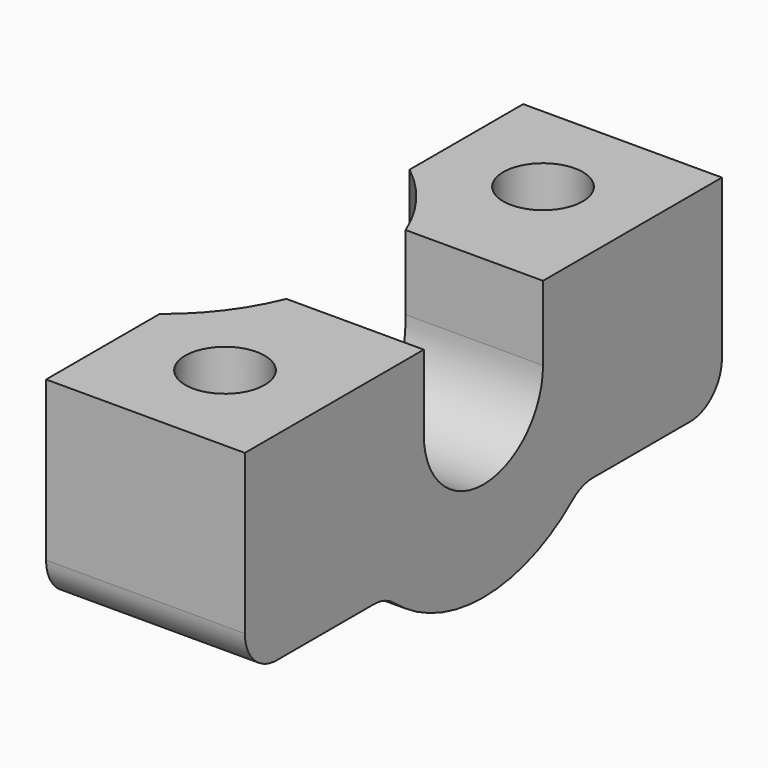
from build123d import *

# Parameters (mm, degrees)
F2_DEPTH = 12.7
F0_R     = 2.54
F3_DEPTH = 25.4
F4_R     = 2.54
F5_SIZE  = 1.27


with BuildPart() as f2:
    # F1 (on Right) → F2 (new body)
    with BuildSketch(Plane.YZ):
        with BuildLine():
            Line((4.7625, 0), (4.7625, -4.7625))
            ThreePointArc((4.7625, -4.7625), (0, -9.525), (-4.7625, -4.7625))
            Line((-4.7625, -4.7625), (-4.7625, 0))
            Line((-4.7625, 0), (-19.05, 0))
            Line((-19.05, 0), (-19.05, -12.7))
            Line((-19.05, -12.7), (-7.77713, -12.7))
            ThreePointArc((-7.77713, -12.7), (0, -15.875), (7.77713, -12.7))
            Line((7.77713, -12.7), (19.05, -12.7))
            Line((19.05, -12.7), (19.05, 0))
            Line((19.05, 0), (4.7625, 0))
        make_face()
    extrude(amount=F2_DEPTH)

    # F0 (on Top) → F3 (cut)
    with BuildSketch(Plane.XY):
        with Locations((6.35, 12.7)):
            Circle(F0_R)
        with Locations((6.35, -12.7)):
            Circle(F0_R)
        with BuildLine():
            ThreePointArc((0, -9.984122), (4.850968, 0), (0, 9.984122))
            Line((0, 9.984122), (0, -9.984122))
        make_face()
    extrude(amount=-F3_DEPTH, mode=Mode.SUBTRACT)

    # F4
    f4_edges = [f2.edges().sort_by_distance(p)[0] for p in [
        (6.35, 19.05, -12.7),
        (6.35, -19.05, -12.7),
        (7.4456, 7.77713, -12.7),
        (7.4456, -7.77713, -12.7),
    ]]
    fillet(f4_edges, radius=F4_R)

    # F5
    f5_edges = [f2.edges().sort_by_distance(p)[0] for p in [
        (3.81, 12.7, -12.7),
        (3.81, -12.7, -12.7),
    ]]
    chamfer(f5_edges, length=F5_SIZE)


solid = f2.part
